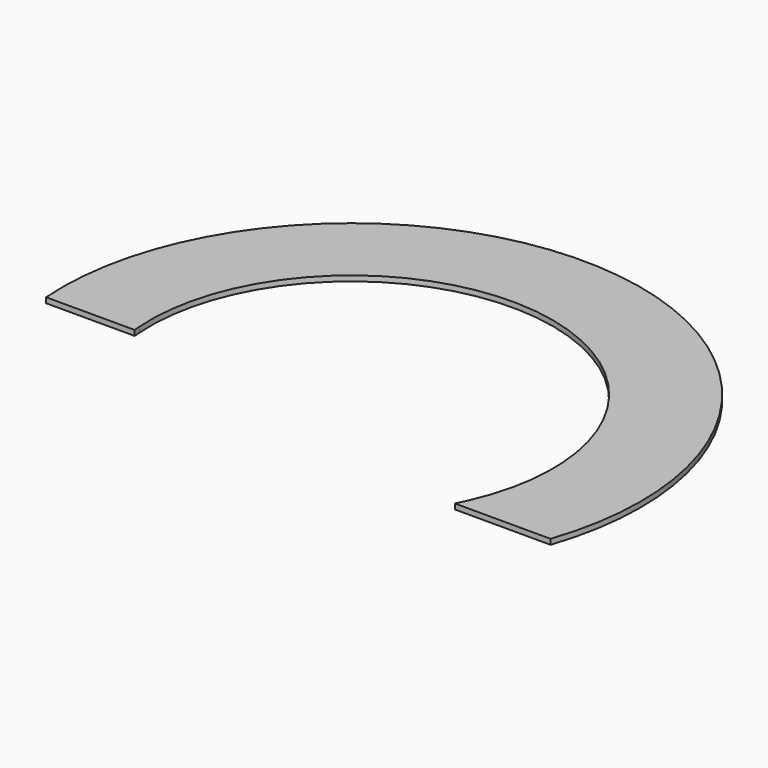
from build123d import *

# Parameters (mm, degrees)
F1_DEPTH = 18


with BuildPart() as f1:
    # F0 (on Top) → F1 (new body)
    with BuildSketch(Plane.XY):
        with BuildLine():
            ThreePointArc((624.365771, -279.566763), (615.330424, -298.92919), (605.694801, -318))
            Line((605.694801, -318), (661.646431, -318))
            Line((661.646431, -318), (931.302874, -318))
            ThreePointArc((931.302874, -318), (127.452072, 975.809926), (-981.736562, -68.134905))
            ThreePointArc((-981.736562, -68.134905), (-981.668225, -69.112513), (-981.598914, -70.090053))
            Line((-981.598914, -70.090053), (-730.744404, -70.090053))
            Line((-730.744404, -70.090053), (-680.498035, -70.090053))
            ThreePointArc((-680.498035, -70.090053), (-681.571978, -58.735259), (-682.456467, -47.364139))
            ThreePointArc((-682.456467, -47.364139), (119.679351, 673.548101), (624.365771, -279.566763))
        make_face()
    extrude(amount=F1_DEPTH)


solid = f1.part
